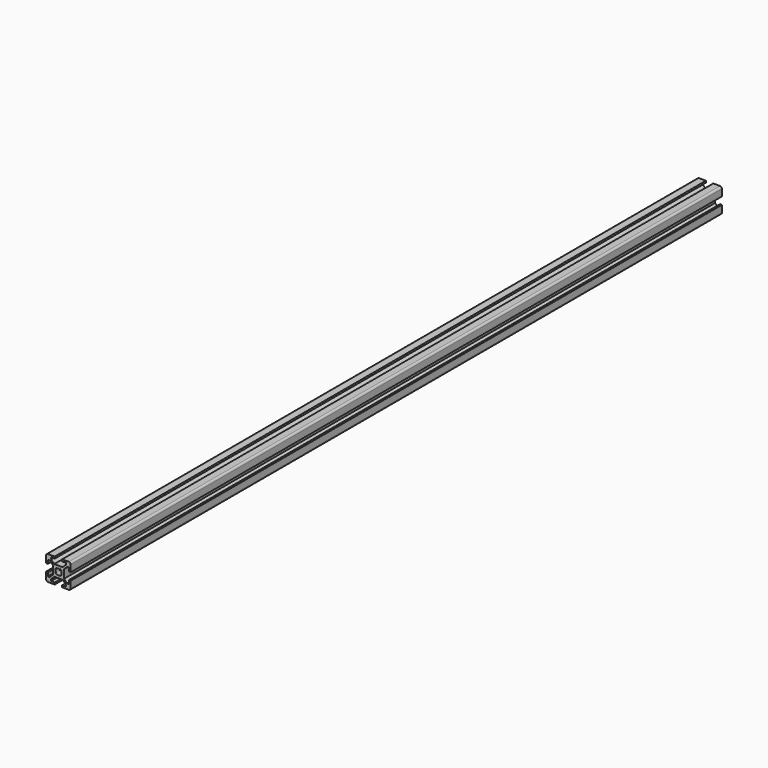
from build123d import *

# Parameters (mm, degrees)
F1_DEPTH = 660


with BuildPart() as f1:
    # F0 (on Front) → F1 (new body)
    with BuildSketch(Plane.XZ):
        with BuildLine():
            Line((3, -10), (8.5, -10))
            ThreePointArc((8.5, -10), (9.5606601718, -9.5606601718), (10, -8.5))
            Line((10, -8.5), (10, -3))
            Line((10, -3), (8.5, -3))
            Line((8.5, -3), (8.5, -6))
            Line((8.5, -6), (7.0606601718, -6))
            Line((7.0606601718, -6), (4.5, -3.4393398282))
            Line((4.5, -3.4393398282), (4.5, 3.4393398282))
            Line((4.5, 3.4393398282), (7.0606601718, 6))
            Line((7.0606601718, 6), (8.5, 6))
            Line((8.5, 6), (8.5, 3))
            Line((8.5, 3), (10, 3))
            Line((10, 3), (10, 8.5))
            ThreePointArc((10, 8.5), (9.5606601718, 9.5606601718), (8.5, 10))
            Line((8.5, 10), (3, 10))
            Line((3, 10), (3, 8.5))
            Line((3, 8.5), (6, 8.5))
            Line((6, 8.5), (6, 7.0606601718))
            Line((6, 7.0606601718), (3.4393398282, 4.5))
            Line((3.4393398282, 4.5), (-3.4393398282, 4.5))
            Line((-3.4393398282, 4.5), (-6, 7.0606601718))
            Line((-6, 7.0606601718), (-6, 8.5))
            Line((-6, 8.5), (-3, 8.5))
            Line((-3, 8.5), (-3, 10))
            Line((-3, 10), (-8.5, 10))
            ThreePointArc((-8.5, 10), (-9.5606601718, 9.5606601718), (-10, 8.5))
            Line((-10, 8.5), (-10, 3))
            Line((-10, 3), (-8.5, 3))
            Line((-8.5, 3), (-8.5, 6))
            Line((-8.5, 6), (-7.0606601718, 6))
            Line((-7.0606601718, 6), (-4.5, 3.4393398282))
            Line((-4.5, 3.4393398282), (-4.5, -3.4393398282))
            Line((-4.5, -3.4393398282), (-7.0606601718, -6))
            Line((-7.0606601718, -6), (-8.5, -6))
            Line((-8.5, -6), (-8.5, -3))
            Line((-8.5, -3), (-10, -3))
            Line((-10, -3), (-10, -8.5))
            ThreePointArc((-10, -8.5), (-9.5606601718, -9.5606601718), (-8.5, -10))
            Line((-8.5, -10), (-3, -10))
            Line((-3, -10), (-3, -8.5))
            Line((-3, -8.5), (-6, -8.5))
            Line((-6, -8.5), (-6, -7.0606601718))
            Line((-6, -7.0606601718), (-3.4393398282, -4.5))
            Line((-3.4393398282, -4.5), (3.4393398282, -4.5))
            Line((3.4393398282, -4.5), (6, -7.0606601718))
            Line((6, -7.0606601718), (6, -8.5))
            Line((6, -8.5), (3, -8.5))
            Line((3, -8.5), (3, -10))
        make_face()
        with BuildLine():
            ThreePointArc((-1.1560121095, 2.2166722813), (0, 2.5), (1.1560121095, 2.2166722813))
            Line((1.1560121095, 2.2166722813), (1.4393398282, 2.5))
            Line((1.4393398282, 2.5), (2.5, 1.4393398282))
            Line((2.5, 1.4393398282), (2.2166722813, 1.1560121095))
            ThreePointArc((2.2166722813, 1.1560121095), (2.5, 0), (2.2166722813, -1.1560121095))
            Line((2.2166722813, -1.1560121095), (2.5, -1.4393398282))
            Line((2.5, -1.4393398282), (1.4393398282, -2.5))
            Line((1.4393398282, -2.5), (1.1560121095, -2.2166722813))
            ThreePointArc((1.1560121095, -2.2166722813), (0, -2.5), (-1.1560121095, -2.2166722813))
            Line((-1.1560121095, -2.2166722813), (-1.4393398282, -2.5))
            Line((-1.4393398282, -2.5), (-2.5, -1.4393398282))
            Line((-2.5, -1.4393398282), (-2.2166722813, -1.1560121095))
            ThreePointArc((-2.2166722813, -1.1560121095), (-2.5, 0), (-2.2166722813, 1.1560121095))
            Line((-2.2166722813, 1.1560121095), (-2.5, 1.4393398282))
            Line((-2.5, 1.4393398282), (-1.4393398282, 2.5))
            Line((-1.4393398282, 2.5), (-1.1560121095, 2.2166722813))
        make_face(mode=Mode.SUBTRACT)
    extrude(amount=F1_DEPTH)


solid = f1.part
